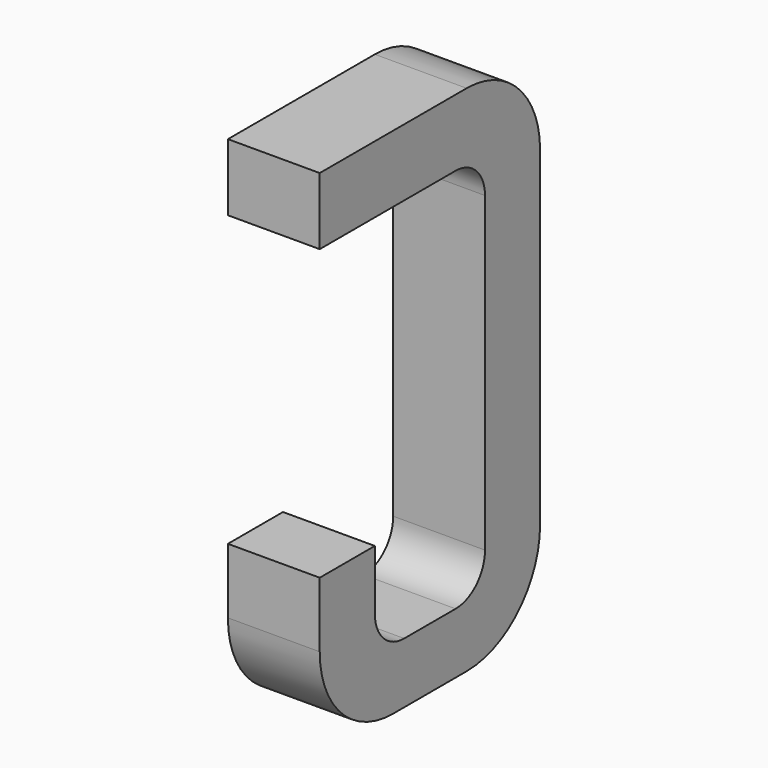
from build123d import *

# Parameters (mm, degrees)
BOX062_W     = 0.5
BOX062_H     = 1.5
BOX062_DEPTH = 2.795
FILLET133_R  = 0.5
FILLET132_R  = 0.5
FILLET140_R  = 0.5
BOX070_W     = 0.75
BOX070_H     = 2.1
BOX070_DEPTH = 1
FILLET143_R  = 0.2
FILLET145_R  = 0.2
FILLET141_R  = 0.2
FILLET142_R  = 0.2
BOX072_W     = 1
BOX072_H     = 1.575
BOX072_DEPTH = 3


with BuildPart() as part:
    # Box062 → Box062 (join)
    with BuildSketch(Plane(origin=(-0.25, 11.125, 0), x_dir=(1, 0, 0), z_dir=(0, 0, 1))):
        with Locations((0.25, 0.75)):
            Rectangle(BOX062_W, BOX062_H)
    extrude(amount=BOX062_DEPTH)

    # Fillet133
    fillet133_edges = [part.edges().sort_by_distance(p)[0] for p in [
        (0, 12.625, 0),
    ]]
    fillet(fillet133_edges, radius=FILLET133_R)

    # Fillet132
    fillet132_edges = [part.edges().sort_by_distance(p)[0] for p in [
        (0, 12.625, 2.795),
    ]]
    fillet(fillet132_edges, radius=FILLET132_R)

    # Fillet140
    fillet140_edges = [part.edges().sort_by_distance(p)[0] for p in [
        (0, 11.125, 0),
    ]]
    fillet(fillet140_edges, radius=FILLET140_R)

    # Box070 → Box070 (cut)
    with BuildSketch(Plane(origin=(-0.5, 11.5, 0.33), x_dir=(0, 1, 0), z_dir=(1, 0, 0))):
        with Locations((0.375, 1.05)):
            Rectangle(BOX070_W, BOX070_H)
    extrude(amount=BOX070_DEPTH, mode=Mode.SUBTRACT)

    # Fillet143
    fillet143_edges = [part.edges().sort_by_distance(p)[0] for p in [
        (0, 11.5, 0.33),
    ]]
    fillet(fillet143_edges, radius=FILLET143_R)

    # Fillet145
    fillet145_edges = [part.edges().sort_by_distance(p)[0] for p in [
        (0, 12.25, 0.33),
    ]]
    fillet(fillet145_edges, radius=FILLET145_R)

    # Fillet141
    fillet141_edges = [part.edges().sort_by_distance(p)[0] for p in [
        (0, 11.5, 2.43),
    ]]
    fillet(fillet141_edges, radius=FILLET141_R)

    # Fillet142
    fillet142_edges = [part.edges().sort_by_distance(p)[0] for p in [
        (0, 12.25, 2.43),
    ]]
    fillet(fillet142_edges, radius=FILLET142_R)

    # Box072 → Box072 (cut)
    with BuildSketch(Plane(origin=(-1, 11, 0.855), x_dir=(0, 1, 0), z_dir=(1, 0, 0))):
        with Locations((0.5, 0.7875)):
            Rectangle(BOX072_W, BOX072_H)
    extrude(amount=BOX072_DEPTH, mode=Mode.SUBTRACT)


with BuildPart() as part_1:
    # Body020 placement: moved
    add(part.part.moved(Location((6.35, 0, 0))))


solid = part_1.part
